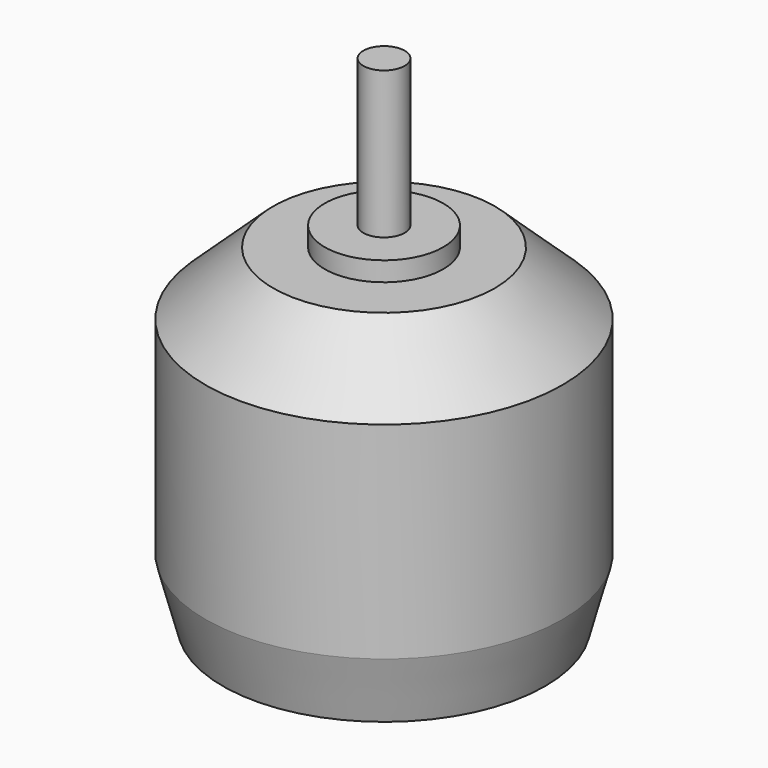
from build123d import *


with BuildPart() as part:
    # Sketch → Revolution (revolve)
    with BuildSketch(Plane.XZ):
        Polygon((0, 0), (0, 38.8), (1.6, 38.8), (1.6, 27.4), (4.6, 27.4), (4.6, 25.9), (8.6, 25.9), (13.85, 21), (13.85, 5), (12.5, 0), align=None)
    revolve(axis=Axis((0, 0, 0), (0, 0, 1)))


solid = part.part
